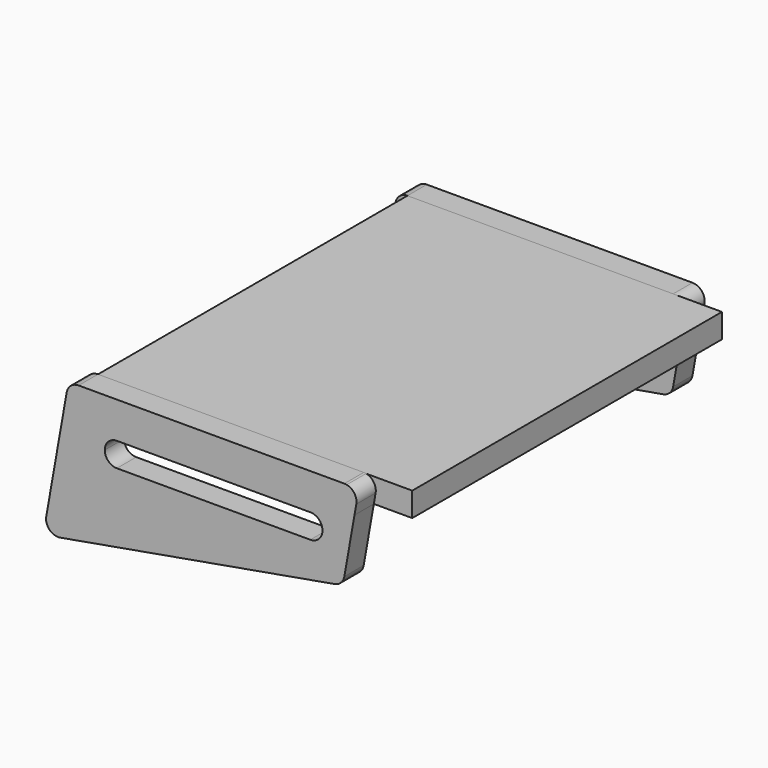
from build123d import *

# Parameters (mm, degrees)
F1_DEPTH = 25.4
F2_W     = 330.2
F2_H     = 25.4
F3_DEPTH = 406.4
F5_DEPTH = 25.4


with BuildPart() as f1:
    # F0 (on Front) → F1 (new body)
    with BuildSketch(Plane.XZ):
        with BuildLine():
            Line((162.472783, 63.5), (-116.535381, 63.5))
            ThreePointArc((-116.535381, 63.5), (-124.698784, 60.528764), (-129.04244, 53.005332))
            Line((-129.04244, 53.005332), (-150.506389, -68.722771))
            ThreePointArc((-150.506389, -68.722771), (-146.979586, -79.908359), (-135.793998, -83.435161))
            Line((-135.793998, -83.435161), (152.167227, -32.659828))
            ThreePointArc((152.167227, -32.659828), (158.942151, -29.133026), (162.468954, -22.358101))
            Line((162.468954, -22.358101), (174.979841, 48.594668))
            ThreePointArc((174.979841, 48.594668), (172.201547, 58.963403), (162.472783, 63.5))
        make_face()
        with BuildLine():
            ThreePointArc((-89.091947, 12.7), (-85.372203, 21.680256), (-76.391947, 25.4))
            Line((-76.391947, 25.4), (126.808053, 25.4))
            ThreePointArc((126.808053, 25.4), (135.78831, 21.680256), (139.508053, 12.7))
            ThreePointArc((139.508053, 12.7), (135.78831, 3.719744), (126.808053, 0))
            Line((126.808053, 0), (-76.391947, 0))
            ThreePointArc((-76.391947, 0), (-85.372203, 3.719744), (-89.091947, 12.7))
        make_face(mode=Mode.SUBTRACT)
    extrude(amount=F1_DEPTH)


with BuildPart() as f3:
    # F2 (on face) → F3 (new body)
    with BuildSketch(Plane.XZ.offset(25.4)):
        with Locations((48.564619, 50.8)):
            Rectangle(F2_W, F2_H)
    extrude(amount=F3_DEPTH)


with BuildPart() as f5:
    # F4 (on face) → F5 (new body)
    with BuildSketch(Plane.XZ.offset(431.8)):
        with BuildLine():
            Line((162.710942, 63.745592), (-116.297223, 63.745592))
            ThreePointArc((-116.297223, 63.745592), (-124.460625, 60.774357), (-128.804281, 53.250924))
            Line((-128.804281, 53.250924), (-150.26823, -68.477179))
            ThreePointArc((-150.26823, -68.477179), (-146.741427, -79.662767), (-135.555839, -83.189569))
            Line((-135.555839, -83.189569), (152.405386, -32.414236))
            ThreePointArc((152.405386, -32.414236), (159.18031, -28.887433), (162.707112, -22.112509))
            Line((162.707112, -22.112509), (173.324202, 38.1))
            Line((173.324202, 38.1), (-116.535381, 38.1))
            Line((-116.535381, 38.1), (-116.535381, 63.5))
            Line((-116.535381, 63.5), (165.196445, 63.5))
            ThreePointArc((165.196445, 63.5), (163.959745, 63.684045), (162.710942, 63.745592))
        make_face()
        with BuildLine():
            ThreePointArc((-88.853788, 12.945592), (-85.134044, 21.925848), (-76.153788, 25.645592))
            Line((-76.153788, 25.645592), (127.046212, 25.645592))
            ThreePointArc((127.046212, 25.645592), (136.026468, 21.925848), (139.746212, 12.945592))
            ThreePointArc((139.746212, 12.945592), (136.026468, 3.965336), (127.046212, 0.245592))
            Line((127.046212, 0.245592), (-76.153788, 0.245592))
            ThreePointArc((-76.153788, 0.245592), (-85.134044, 3.965336), (-88.853788, 12.945592))
        make_face(mode=Mode.SUBTRACT)
        with BuildLine():
            ThreePointArc((175.218, 48.84026), (173.195274, 58.212794), (165.196445, 63.5))
            Line((165.196445, 63.5), (-116.535381, 63.5))
            Line((-116.535381, 63.5), (-116.535381, 38.1))
            Line((-116.535381, 38.1), (173.324202, 38.1))
            Line((173.324202, 38.1), (175.218, 48.84026))
        make_face()
    extrude(amount=F5_DEPTH)


solid = Compound([f1.part, f3.part, f5.part])
